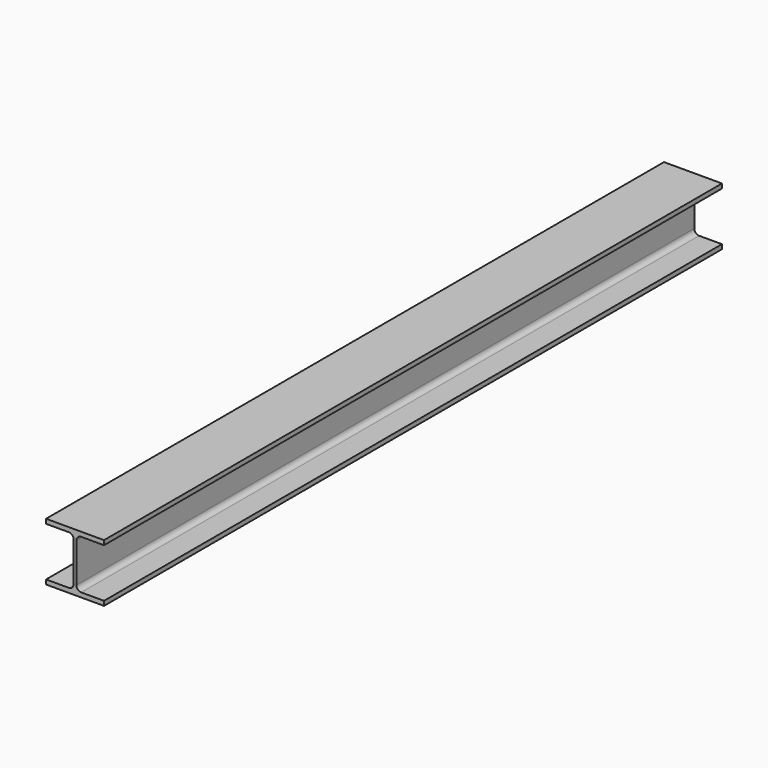
from build123d import *

# Parameters (mm, degrees)
F1_DEPTH = 1200


with BuildPart() as f1:
    # F0 (on Front) → F1 (new body, symmetric)
    with BuildSketch(Plane.XZ):
        with BuildLine():
            Line((0, 14), (0, 0))
            Line((0, 0), (180, 0))
            Line((180, 0), (180, 14))
            Line((180, 14), (109.25, 14))
            ThreePointArc((109.25, 14), (98.643398, 18.393398), (94.25, 29))
            Line((94.25, 29), (94.25, 151))
            ThreePointArc((94.25, 151), (98.643398, 161.606602), (109.25, 166))
            Line((109.25, 166), (180, 166))
            Line((180, 166), (180, 180))
            Line((180, 180), (0, 180))
            Line((0, 180), (0, 166))
            Line((0, 166), (70.75, 166))
            ThreePointArc((70.75, 166), (81.356602, 161.606602), (85.75, 151))
            Line((85.75, 151), (85.75, 29))
            ThreePointArc((85.75, 29), (81.356602, 18.393398), (70.75, 14))
            Line((70.75, 14), (0, 14))
        make_face()
    extrude(amount=F1_DEPTH, both=True)


solid = f1.part
